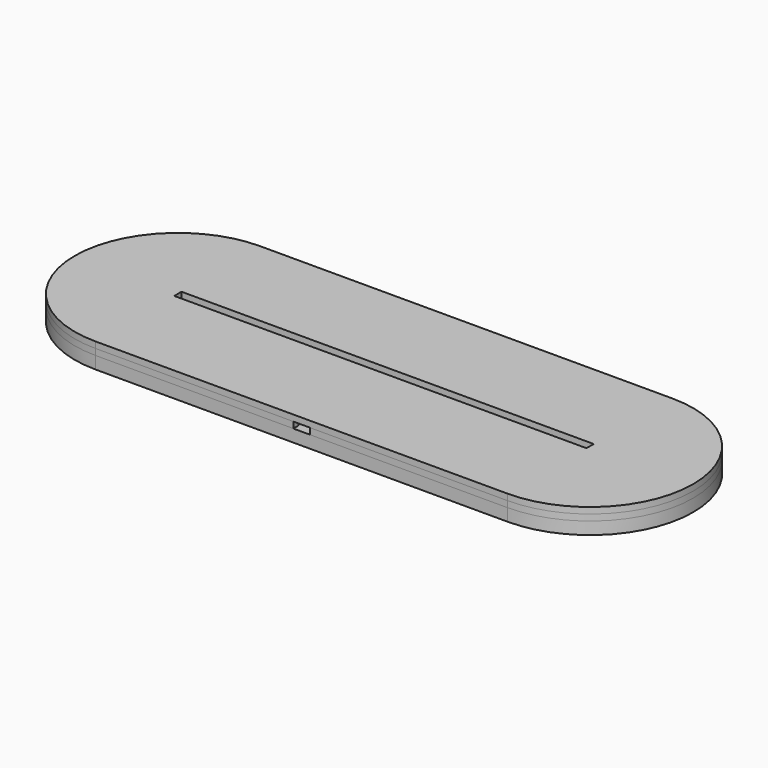
from build123d import *

# Parameters (mm, degrees)
BOX_BOTTOM_HALF_0_W     = 301.98633
BOX_BOTTOM_HALF_0_H     = 102
BOX_BOTTOM_HALF_0_DEPTH = 7
PAD_DEPTH               = 3
PAD001_DEPTH            = 3
SKETCH002_W             = 209.08447
SKETCH002_H             = 4.18
PAD002_DEPTH            = 3
SKETCH003_W             = 26.3
SKETCH003_H             = 34.2
POCKET_DEPTH            = 3
SKETCH004_W             = 18
SKETCH004_H             = 25
POCKET001_DEPTH         = 3
SKETCH005_W             = 14
SKETCH005_H             = 5
POCKET002_DEPTH         = 6
SKETCH006_W             = 14
SKETCH006_H             = 3
POCKET003_DEPTH         = 3
SKETCH007_W             = 8
SKETCH007_H             = 3
POCKET004_DEPTH         = 3
SKETCH008_W             = 200
SKETCH008_H             = 4.4
PAD003_DEPTH            = 3
SKETCH009_R             = 0.8
POCKET005_DEPTH         = 9
BOX_BOTTOM_HALF_1_W     = 301.98633
BOX_BOTTOM_HALF_1_H     = 102
BOX_BOTTOM_HALF_1_DEPTH = 4


with BuildPart() as box_bottom_half_0_body:
    # box_bottom_half_0 → box_bottom_half_0 (new body)
    with BuildSketch(Plane(origin=(-150.993165, -51, -1), x_dir=(1, 0, 0), z_dir=(0, 0, 1))):
        with Locations((150.993165, 51)):
            Rectangle(BOX_BOTTOM_HALF_0_W, BOX_BOTTOM_HALF_0_H)
    extrude(amount=BOX_BOTTOM_HALF_0_DEPTH)


with BuildPart() as body:
    # Sketch → Pad (new body)
    with BuildSketch(Plane.XY):
        with BuildLine():
            ThreePointArc((-100, 50), (-150, 0), (-100, -50))
            Line((-100, -50), (100, -50))
            ThreePointArc((100, -50), (150, 0), (100, 50))
            Line((-100, 50), (100, 50))
        make_face()
    extrude(amount=PAD_DEPTH)

    # Sketch001 (on Face6 of Pad) → Pad001 (join)
    with BuildSketch(Plane.XY.offset(3)):
        with BuildLine():
            ThreePointArc((-100, 50), (-150, 0), (-100, -50))
            Line((-100, -50), (100, -50))
            ThreePointArc((100, -50), (150, 0), (100, 50))
            Line((-100, 50), (100, 50))
        make_face()
        with BuildLine():
            ThreePointArc((-100, 5), (-105, 0), (-100, -5))
            Line((-100, -5), (100, -5))
            ThreePointArc((100, -5), (105, 0), (100, 5))
            Line((-100, 5), (100, 5))
        make_face(mode=Mode.SUBTRACT)
    extrude(amount=PAD001_DEPTH)

    # Sketch002 (on Face9 of Pad001) → Pad002 (join)
    with BuildSketch(Plane.XY.offset(6)):
        with BuildLine():
            ThreePointArc((-100, 50), (-150, 0), (-100, -50))
            Line((-100, -50), (100, -50))
            ThreePointArc((100, -50), (150, 0), (100, 50))
            Line((-100, 50), (100, 50))
        make_face()
        Rectangle(SKETCH002_W, SKETCH002_H, mode=Mode.SUBTRACT)
    extrude(amount=PAD002_DEPTH)

    # Sketch003 (on Face13 of Pad002) → Pocket (cut)
    with BuildSketch(Plane.XY.offset(9)):
        with Locations((0, -29.9)):
            Rectangle(SKETCH003_W, SKETCH003_H)
    extrude(amount=-POCKET_DEPTH, mode=Mode.SUBTRACT)

    # Sketch004 (on Face27 of Pocket) → Pocket001 (cut)
    with BuildSketch(Plane.XY.offset(6)):
        with Locations((0, -25.3)):
            Rectangle(SKETCH004_W, SKETCH004_H)
    extrude(amount=-POCKET001_DEPTH, mode=Mode.SUBTRACT)

    # Sketch005 (on Face13 of Pocket001) → Pocket002 (cut)
    with BuildSketch(Plane.XY.offset(9)):
        with Locations((0, -10.3)):
            Rectangle(SKETCH005_W, SKETCH005_H)
    extrude(amount=-POCKET002_DEPTH, mode=Mode.SUBTRACT)

    # Sketch006 (on Face23 of Pocket002) → Pocket003 (cut)
    with BuildSketch(Plane.XZ.offset(7.8)):
        with Locations((0, 4.5)):
            Rectangle(SKETCH006_W, SKETCH006_H)
    extrude(amount=-POCKET003_DEPTH, mode=Mode.SUBTRACT)

    # Sketch007 (on Face13 of Pocket003) → Pocket004 (cut)
    with BuildSketch(Plane.XY.offset(9)):
        with Locations((0, -48.5)):
            Rectangle(SKETCH007_W, SKETCH007_H)
    extrude(amount=-POCKET004_DEPTH, mode=Mode.SUBTRACT)

    # Sketch008 (on Face15 of Pocket004) → Pad003 (join)
    with BuildSketch(Plane.XY.offset(9)):
        with BuildLine():
            ThreePointArc((-100, 50), (-150, 0), (-100, -50))
            Line((-100, -50), (100, -50))
            ThreePointArc((100, -50), (150, 0), (100, 50))
            Line((-100, 50), (100, 50))
        make_face()
        Rectangle(SKETCH008_W, SKETCH008_H, mode=Mode.SUBTRACT)
    extrude(amount=PAD003_DEPTH)

    # Sketch009 (on Face4 of Pad003) → Pocket005 (cut)
    with BuildSketch(Plane(origin=(0, 0, 0), x_dir=(1, 0, 0), z_dir=(0, 0, -1))):
        with Locations((-95, 35)):
            Circle(SKETCH009_R)
        with Locations((-95, -35)):
            Circle(SKETCH009_R)
    pocket005 = extrude(amount=-POCKET005_DEPTH, mode=Mode.SUBTRACT)

    # Mirrored: Pocket005 across Sketch009 V_Axis
    add(pocket005.mirror(Plane(origin=(0, 0, 0), x_dir=(0, 0, -1), z_dir=(1, 0, 0))), mode=Mode.SUBTRACT)


with BuildPart() as bottom_half_0_body:
    # bottom_half_0 base: copy of Body
    add(body.part)

    # bottom_half_0: intersect box_bottom_half_0 body
    add(box_bottom_half_0_body.part, mode=Mode.INTERSECT)


with BuildPart() as box_bottom_half_1_body:
    # box_bottom_half_1 → box_bottom_half_1 (new body)
    with BuildSketch(Plane(origin=(-150.993165, -51, 5), x_dir=(1, 0, 0), z_dir=(0, 0, 1))):
        with Locations((150.993165, 51)):
            Rectangle(BOX_BOTTOM_HALF_1_W, BOX_BOTTOM_HALF_1_H)
    extrude(amount=BOX_BOTTOM_HALF_1_DEPTH)


with BuildPart() as top_half_0_body:
    # top_half_0 base: copy of Body
    add(body.part)

    # top_half_0: cut box_bottom_half_0 body
    add(box_bottom_half_0_body.part, mode=Mode.SUBTRACT)


with BuildPart() as bottom_half_1_body:
    # bottom_half_1 base: copy of top_half_0 body
    add(top_half_0_body.part)

    # bottom_half_1: intersect box_bottom_half_1 body
    add(box_bottom_half_1_body.part, mode=Mode.INTERSECT)


with BuildPart() as top_half_1_body:
    # top_half_1 base: copy of top_half_0 body
    add(top_half_0_body.part)

    # top_half_1: cut box_bottom_half_1 body
    add(box_bottom_half_1_body.part, mode=Mode.SUBTRACT)


solid = Compound([bottom_half_0_body.part, bottom_half_1_body.part, top_half_1_body.part])
